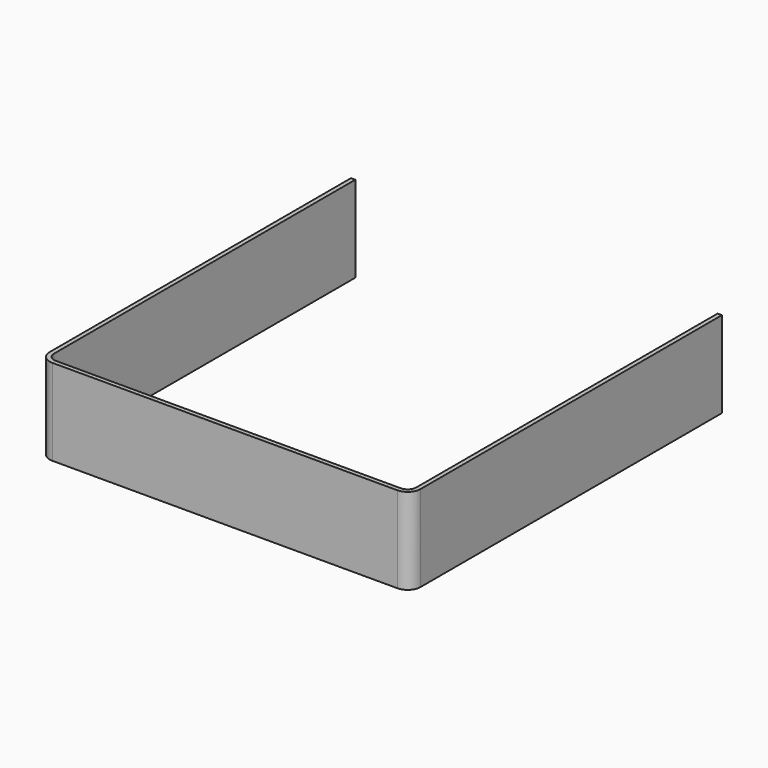
from build123d import *

# Parameters (mm, degrees)
SKETCH040_W    = 252
SKETCH040_H    = 268
PAD011_DEPTH   = 60
FILLET013_R    = 6
THICKNESS001_T = 3


with BuildPart() as part:
    # Sketch040 → Pad011 (new body)
    with BuildSketch(Plane.XY):
        with Locations((0, -134)):
            Rectangle(SKETCH040_W, SKETCH040_H)
    extrude(amount=PAD011_DEPTH)

    # Fillet013
    fillet013_edges = [part.edges().sort_by_distance(p)[0] for p in [
        (126, -268, 30),
        (-126, -268, 30),
    ]]
    fillet(fillet013_edges, radius=FILLET013_R)

    # Thickness001
    thickness001_openings = [part.faces().sort_by_distance(p)[0] for p in [
        (0, -133.969642, 60),
        (0, -133.969642, 0),
        (0, 0, 30),
    ]]
    offset(amount=THICKNESS001_T, openings=thickness001_openings)


solid = part.part
